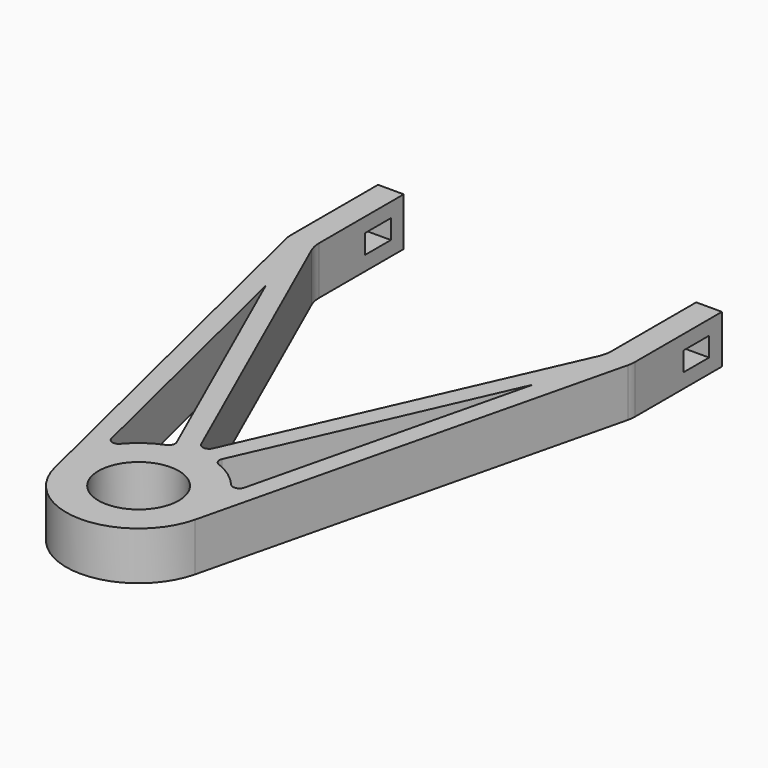
from build123d import *

# Parameters (mm, degrees)
F0_R     = 12.5
F1_DEPTH = 15
F2_R     = 10
F3_R     = 2
F4_W     = 10
F4_H     = 6
F5_DEPTH = 107.001


with BuildPart() as f1:
    # F0 (on Top) → F1 (new body)
    with BuildSketch(Plane.XY):
        with BuildLine():
            ThreePointArc((21.864888, -5.308172), (22.340658, -2.673016), (22.5, 0))
            ThreePointArc((22.5, 0), (21.774068, 5.669212), (19.643114, 10.972606))
            ThreePointArc((19.643114, 10.972606), (13.968986, 17.638521), (6.180399, 21.634525))
            ThreePointArc((6.180399, 21.634525), (3.120352, 22.282581), (0, 22.5))
            ThreePointArc((0, 22.5), (-3.120352, 22.282581), (-6.180399, 21.634525))
            ThreePointArc((-6.180399, 21.634525), (-13.968986, 17.638521), (-19.643114, 10.972606))
            ThreePointArc((-19.643114, 10.972606), (-22.293373, 3.042289), (-21.864888, -5.308172))
            ThreePointArc((-21.864888, -5.308172), (0, -22.5), (21.864888, -5.308172))
        make_face()
        Circle(F0_R, mode=Mode.SUBTRACT)
        with BuildLine():
            ThreePointArc((19.643114, 10.972606), (21.774068, 5.669212), (22.5, 0))
            ThreePointArc((22.5, 0), (22.340658, -2.673016), (21.864888, -5.308172))
            Line((21.864888, -5.308172), (53.5, 125))
            Line((53.5, 125), (53.5, 160))
            Line((53.5, 160), (45.5, 160))
            Line((45.5, 160), (45.5, 125))
            Line((45.5, 125), (0, 22.5))
            ThreePointArc((0, 22.5), (3.120352, 22.282581), (6.180399, 21.634525))
            Line((6.180399, 21.634525), (41.605751, 101.438889))
            Line((41.605751, 101.438889), (19.643114, 10.972606))
        make_face()
        with BuildLine():
            Line((-53.5, 125), (-21.864888, -5.308172))
            ThreePointArc((-21.864888, -5.308172), (-22.293373, 3.042289), (-19.643114, 10.972606))
            Line((-19.643114, 10.972606), (-41.605751, 101.438889))
            Line((-41.605751, 101.438889), (-6.180399, 21.634525))
            ThreePointArc((-6.180399, 21.634525), (-3.120352, 22.282581), (0, 22.5))
            Line((0, 22.5), (-45.5, 125))
            Line((-45.5, 125), (-45.5, 160))
            Line((-45.5, 160), (-53.5, 160))
            Line((-53.5, 160), (-53.5, 125))
        make_face()
    extrude(amount=F1_DEPTH)

    # F2
    f2_edges = [f1.edges().sort_by_distance(p)[0] for p in [
        (-53.5, 125, 7.5),
        (45.5, 125, 7.5),
        (-45.5, 125, 7.5),
        (53.5, 125, 7.5),
    ]]
    fillet(f2_edges, radius=F2_R)

    # F3
    f3_edges = [f1.edges().sort_by_distance(p)[0] for p in [
        (-6.180399, 21.634525, 7.5),
        (-19.643114, 10.972606, 7.5),
        (19.643114, 10.972606, 7.5),
        (6.180399, 21.634525, 7.5),
        (0, 22.5, 7.5),
    ]]
    fillet(f3_edges, radius=F3_R)

    # F4 (on face) → F5 (cut, through all)
    with BuildSketch(Plane(origin=(-53.5, 0, 0), x_dir=(0, -1, 0), z_dir=(-1, 0, 0))):
        with Locations((-150, 7.5)):
            Rectangle(F4_W, F4_H)
    extrude(amount=-F5_DEPTH, mode=Mode.SUBTRACT)


solid = f1.part
